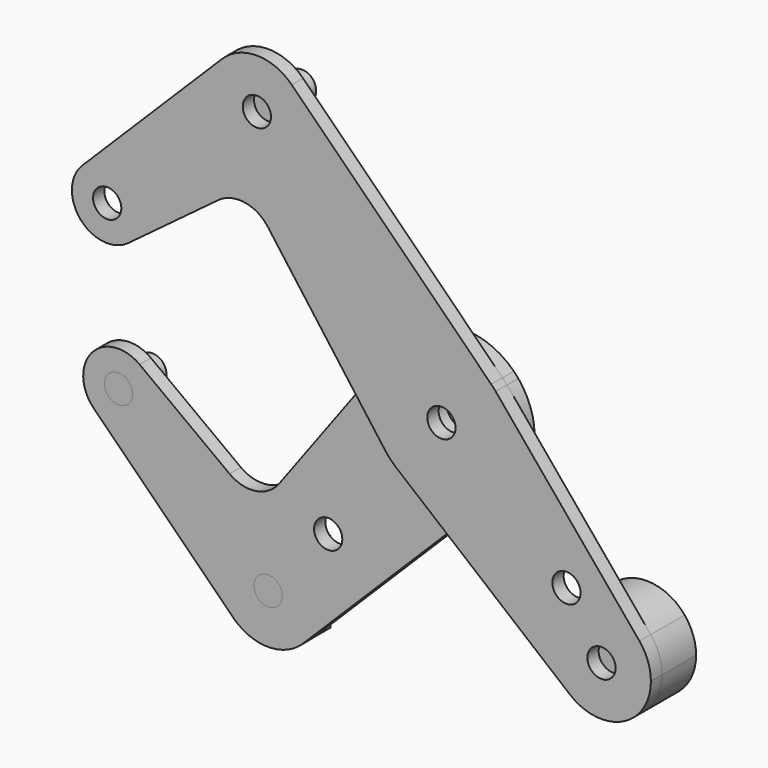
from build123d import *

# Parameters (mm, degrees)
F0_R     = 3.175
F0_R_2   = 3.9751
F1_DEPTH = 3.175
F2_DEPTH = 3.175
F5_DEPTH = 9.525


with BuildPart() as f1:
    # F0 (on Front) → F1 (new body)
    with BuildSketch(Plane.XZ):
        with BuildLine():
            ThreePointArc((-67.2035924475, 19.022847468), (-72.0969787145, 26.3534189212), (-80.7436939481, 24.6455481248))
            ThreePointArc((-80.7436939481, 24.6455481248), (-81.1496169594, 13.8361780704), (-70.3968515915, 12.6591940402))
            ThreePointArc((-70.3968515915, 12.6591940402), (-68.0466820406, 15.4628970151), (-67.2035924475, 19.022847468))
        make_face()
        with Locations((-75.1410924475, 19.022847468)):
            Circle(F0_R, mode=Mode.SUBTRACT)
        with BuildLine():
            ThreePointArc((-12.7612038205, 9.44284396), (-1.190625, 15.8302885984), (11.2052030012, 11.2454013135))
            Line((11.2052030012, 11.2454013135), (-33.6497130803, 55.9399770143))
            ThreePointArc((-33.6497130803, 55.9399770143), (-31.2305551467, 52.3299553211), (-30.3808551811, 48.0681960948))
            ThreePointArc((-30.3808551811, 48.0681960948), (-45.7551144074, 37.8053960604), (-49.336997282, 55.9399770143))
            Line((-49.336997282, 55.9399770143), (-80.7436939481, 24.6455481248))
            ThreePointArc((-80.7436939481, 24.6455481248), (-72.0969787145, 26.3534189212), (-67.2035924475, 19.022847468))
            ThreePointArc((-67.2035924475, 19.022847468), (-68.0466820406, 15.4628970151), (-70.3968515915, 12.6591940402))
            Line((-70.3968515915, 12.6591940402), (-50.1891951564, 27.7244376696))
            ThreePointArc((-50.1891951564, 27.7244376696), (-44.2763495065, 29.2155707059), (-39.0465526417, 26.0795786514))
            Line((-39.0465526417, 26.0795786514), (-19.7485776848, 0))
            Line((-19.7485776848, 0), (-12.7612038205, 9.44284396))
        make_face()
        with BuildLine():
            ThreePointArc((-30.3808551811, 48.0681960948), (-31.2305551467, 52.3299553211), (-33.6497130803, 55.9399770143))
            ThreePointArc((-33.6497130803, 55.9399770143), (-41.4933551811, 59.1806960948), (-49.336997282, 55.9399770143))
            ThreePointArc((-49.336997282, 55.9399770143), (-45.7551144074, 37.8053960604), (-30.3808551811, 48.0681960948))
        make_face()
        with Locations((-41.4933551811, 48.0681960948)):
            Circle(F0_R, mode=Mode.SUBTRACT)
        with BuildLine():
            ThreePointArc((11.2052030012, -11.2454013135), (14.6611429064, -6.088227466), (15.875, 0))
            ThreePointArc((15.875, 0), (14.9306916571, 5.3935212655), (12.2101090846, 10.1453861998))
            ThreePointArc((12.2101090846, 10.1453861998), (11.7205681744, 10.7071894851), (11.2052030012, 11.2454013135))
            ThreePointArc((11.2052030012, 11.2454013135), (-1.190625, 15.8302885984), (-12.7612038205, 9.44284396))
            ThreePointArc((-12.7612038205, 9.44284396), (-15.875, 0), (-12.7612038205, -9.44284396))
            ThreePointArc((-12.7612038205, -9.44284396), (-11.6386596495, -10.7961672163), (-10.3733387953, -12.0170490237))
            Line((-10.3733387953, -12.0170490237), (-9.826735932, -12.4679944628))
            ThreePointArc((-9.826735932, -12.4679944628), (0.9212634625, -15.8482459166), (11.2052030012, -11.2454013135))
        make_face()
        Circle(F0_R_2, mode=Mode.SUBTRACT)
        with BuildLine():
            ThreePointArc((-12.7612038205, -9.44284396), (-15.875, 0), (-12.7612038205, 9.44284396))
            Line((-12.7612038205, 9.44284396), (-19.7485776848, 0))
            Line((-19.7485776848, 0), (-12.7612038205, -9.44284396))
        make_face()
        with BuildLine():
            Line((1.00774715, -21.4064048849), (11.2052030012, -11.2454013135))
            ThreePointArc((11.2052030012, -11.2454013135), (0.9212634625, -15.8482459166), (-9.826735932, -12.4679944628))
            Line((-9.826735932, -12.4679944628), (1.00774715, -21.4064048849))
        make_face()
        with BuildLine():
            ThreePointArc((12.2101090846, 10.1453861998), (14.9306916571, 5.3935212655), (15.875, 0))
            ThreePointArc((15.875, 0), (14.6611429064, -6.088227466), (11.2052030012, -11.2454013135))
            Line((11.2052030012, -11.2454013135), (1.00774715, -21.4064048849))
            Line((1.00774715, -21.4064048849), (28.9134965637, -44.4285499666))
            ThreePointArc((28.9134965637, -44.4285499666), (28.1138099116, -28.0126997872), (44.5323605625, -28.7548792639))
            Line((44.5323605625, -28.7548792639), (12.2101090846, 10.1453861998))
        make_face()
        with Locations((28.1144599424, -23.5318508024)):
            Circle(F0_R, mode=Mode.SUBTRACT)
        with BuildLine():
            ThreePointArc((47.0977842033, -35.8566496037), (46.4367683633, -32.0811847179), (44.5323605625, -28.7548792639))
            ThreePointArc((44.5323605625, -28.7548792639), (28.1138099116, -28.0126997872), (28.9134965637, -44.4285499666))
            ThreePointArc((28.9134965637, -44.4285499666), (40.7235547794, -45.9083384269), (47.0977842033, -35.8566496037))
        make_face()
        with Locations((35.9852842033, -35.8566496037)):
            Circle(F0_R, mode=Mode.SUBTRACT)
        Circle(F0_R_2)
        Circle(F0_R, mode=Mode.SUBTRACT)
    extrude(amount=F1_DEPTH)


with BuildPart() as f2:
    # F0 (on Front) → F2 (new body)
    with BuildSketch(Plane.XZ):
        with BuildLine():
            ThreePointArc((11.2052030012, -11.2454013135), (14.6611429064, -6.088227466), (15.875, 0))
            ThreePointArc((15.875, 0), (14.9306916571, 5.3935212655), (12.2101090846, 10.1453861998))
            ThreePointArc((12.2101090846, 10.1453861998), (11.7205681744, 10.7071894851), (11.2052030012, 11.2454013135))
            ThreePointArc((11.2052030012, 11.2454013135), (-1.190625, 15.8302885984), (-12.7612038205, 9.44284396))
            ThreePointArc((-12.7612038205, 9.44284396), (-15.875, 0), (-12.7612038205, -9.44284396))
            ThreePointArc((-12.7612038205, -9.44284396), (-11.6386596495, -10.7961672163), (-10.3733387953, -12.0170490237))
            Line((-10.3733387953, -12.0170490237), (-9.826735932, -12.4679944628))
            ThreePointArc((-9.826735932, -12.4679944628), (0.9212634625, -15.8482459166), (11.2052030012, -11.2454013135))
        make_face()
        Circle(F0_R_2, mode=Mode.SUBTRACT)
        with BuildLine():
            Line((1.00774715, -21.4064048849), (11.2052030012, -11.2454013135))
            ThreePointArc((11.2052030012, -11.2454013135), (0.9212634625, -15.8482459166), (-9.826735932, -12.4679944628))
            Line((-9.826735932, -12.4679944628), (1.00774715, -21.4064048849))
        make_face()
        with BuildLine():
            ThreePointArc((-12.7612038205, -9.44284396), (-15.875, 0), (-12.7612038205, 9.44284396))
            Line((-12.7612038205, 9.44284396), (-19.7485776848, 0))
            Line((-19.7485776848, 0), (-12.7612038205, -9.44284396))
        make_face()
        with BuildLine():
            Line((1.00774715, -21.4064048849), (-9.826735932, -12.4679944628))
            ThreePointArc((-9.826735932, -12.4679944628), (-10.1025537709, -12.2455719469), (-10.3733387953, -12.0170490237))
            ThreePointArc((-10.3733387953, -12.0170490237), (-11.6386596495, -10.7961672163), (-12.7612038205, -9.44284396))
            Line((-12.7612038205, -9.44284396), (-19.7485776848, 0))
            Line((-19.7485776848, 0), (-39.0465526417, -26.0795786514))
            ThreePointArc((-39.0465526417, -26.0795786514), (-44.2763495065, -29.2155707059), (-50.1891951564, -27.7244376696))
            Line((-50.1891951564, -27.7244376696), (-70.3968515915, -12.6591940402))
            ThreePointArc((-70.3968515915, -12.6591940402), (-68.0466820406, -15.4628970151), (-67.2035924475, -19.022847468))
            ThreePointArc((-67.2035924475, -19.022847468), (-72.0969787145, -26.3534189212), (-80.7436939481, -24.6455481248))
            Line((-80.7436939481, -24.6455481248), (-49.336997282, -55.9399770143))
            ThreePointArc((-49.336997282, -55.9399770143), (-45.7551144074, -37.8053960604), (-30.3808551811, -48.0681960948))
            ThreePointArc((-30.3808551811, -48.0681960948), (-31.2305551467, -52.3299553211), (-33.6497130803, -55.9399770143))
            Line((-33.6497130803, -55.9399770143), (1.00774715, -21.4064048849))
        make_face()
        with Locations((-27.9997160762, -32.4364187248)):
            Circle(F0_R, mode=Mode.SUBTRACT)
        with BuildLine():
            ThreePointArc((-49.336997282, -55.9399770143), (-41.4933551811, -59.1806960948), (-33.6497130803, -55.9399770143))
            ThreePointArc((-33.6497130803, -55.9399770143), (-31.2305551467, -52.3299553211), (-30.3808551811, -48.0681960948))
            ThreePointArc((-30.3808551811, -48.0681960948), (-45.7551144074, -37.8053960604), (-49.336997282, -55.9399770143))
        make_face()
        with Locations((-41.4933551811, -48.0681960948)):
            Circle(F0_R, mode=Mode.SUBTRACT)
        with BuildLine():
            ThreePointArc((-70.3968515915, -12.6591940402), (-81.1496169594, -13.8361780704), (-80.7436939481, -24.6455481248))
            ThreePointArc((-80.7436939481, -24.6455481248), (-72.0969787145, -26.3534189212), (-67.2035924475, -19.022847468))
            ThreePointArc((-67.2035924475, -19.022847468), (-68.0466820406, -15.4628970151), (-70.3968515915, -12.6591940402))
        make_face()
        with Locations((-75.1410924475, -19.022847468)):
            Circle(F0_R, mode=Mode.SUBTRACT)
    extrude(amount=-F2_DEPTH)


with BuildPart() as f5:
    # F3 (on Front) → F5 (new body, through all)
    with BuildSketch(Plane.XZ):
        with BuildLine():
            Line((-35.1433551811, -57.1876892962), (-35.1433551811, -38.9487028935))
            ThreePointArc((-35.1433551811, -38.9487028935), (-52.6058551811, -48.0681960948), (-35.1433551811, -57.1876892962))
        make_face()
    extrude(amount=-F5_DEPTH)

    # F6: cut F1, F2
    add(f1.part, mode=Mode.SUBTRACT)
    add(f2.part, mode=Mode.SUBTRACT)


with BuildPart() as f5b:
    # F0 (on Front) → F5, piece 2 (new body, through all)
    with BuildSketch(Plane.XZ):
        with BuildLine():
            ThreePointArc((47.0977842033, -35.8566496037), (46.4367683633, -32.0811847179), (44.5323605625, -28.7548792639))
            ThreePointArc((44.5323605625, -28.7548792639), (28.1138099116, -28.0126997872), (28.9134965637, -44.4285499666))
            ThreePointArc((28.9134965637, -44.4285499666), (40.7235547794, -45.9083384269), (47.0977842033, -35.8566496037))
        make_face()
        with Locations((35.9852842033, -35.8566496037)):
            Circle(F0_R, mode=Mode.SUBTRACT)
        with Locations((35.9852842033, -35.8566496037)):
            Circle(F0_R)
    extrude(amount=-F5_DEPTH)

    # F6: cut F1, F2
    add(f1.part, mode=Mode.SUBTRACT)
    add(f2.part, mode=Mode.SUBTRACT)


with BuildPart() as f5c:
    # F0 (on Front) → F5, piece 3 (new body, through all)
    with BuildSketch(Plane.XZ):
        with Locations((-75.1410924475, -19.022847468)):
            Circle(F0_R)
    extrude(amount=-F5_DEPTH)

    # F6: cut F1, F2
    add(f1.part, mode=Mode.SUBTRACT)
    add(f2.part, mode=Mode.SUBTRACT)


with BuildPart() as f5d:
    # F0 (on Front) → F5, piece 4 (new body, through all)
    with BuildSketch(Plane.XZ):
        with Locations((-41.4933551811, 48.0681960948)):
            Circle(F0_R)
    extrude(amount=-F5_DEPTH)

    # F6: cut F1, F2
    add(f1.part, mode=Mode.SUBTRACT)
    add(f2.part, mode=Mode.SUBTRACT)


solid = Compound([f1.part, f2.part, f5.part, f5b.part, f5c.part, f5d.part])
